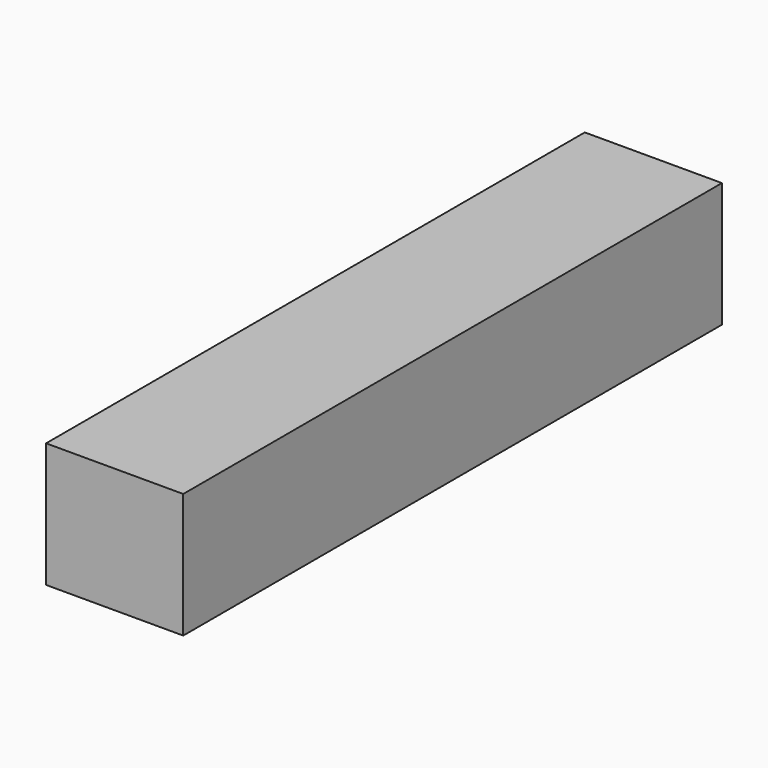
from build123d import *

# Parameters (mm, degrees)
F1_DEPTH = 50
F2_W     = 11
F2_H     = 10
F3_DEPTH = 2
F4_W     = 11
F4_H     = 10
F5_DEPTH = 2


with BuildPart() as f1:
    # F0 (on Front) → F1 (new body)
    with BuildSketch(Plane.XZ):
        with BuildLine():
            Line((0, 10), (0, 0))
            Line((0, 0), (2, 0))
            Line((2, 0), (2, 5.5))
            ThreePointArc((2, 5.5), (5.5, 9), (9, 5.5))
            Line((9, 5.5), (9, 0))
            Line((9, 0), (11, 0))
            Line((11, 0), (11, 10))
            Line((11, 10), (0, 10))
        make_face()
    extrude(amount=F1_DEPTH)

    # F2 (on face) → F3 (join)
    with BuildSketch(Plane(origin=(0, 0, 0), x_dir=(-1, 0, 0), z_dir=(0, 1, 0))):
        with Locations((-5.5, 5)):
            Rectangle(F2_W, F2_H)
    extrude(amount=F3_DEPTH)

    # F4 (on face) → F5 (join)
    with BuildSketch(Plane.XZ.offset(50)):
        with Locations((5.5, 5)):
            Rectangle(F4_W, F4_H)
    extrude(amount=F5_DEPTH)


solid = f1.part
